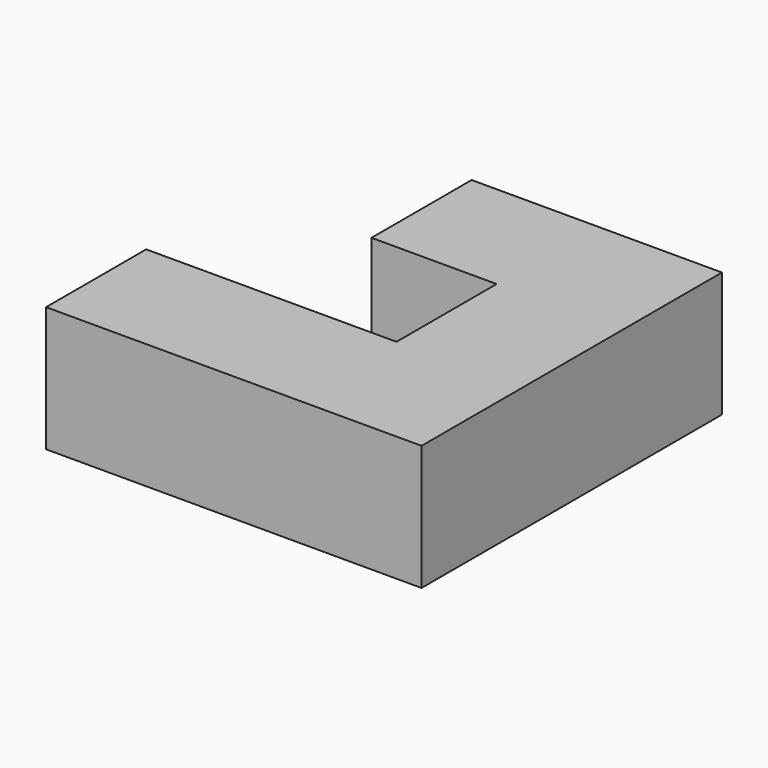
from build123d import *

# Parameters (mm, degrees)
F0_W     = 19.05
F0_H     = 19.05
F1_DEPTH = 19.05


with BuildPart() as f1:
    # F0 (on Top) → F1 (new body)
    with BuildSketch(Plane.XY):
        Polygon((38.1, 0), (0, 0), (0, -19.05), (57.15, -19.05), (57.15, 0), align=None)
        Polygon((38.1, 19.05), (38.1, 0), (57.15, 0), (57.15, 38.1), (38.1, 38.1), align=None)
        with Locations((28.575, 28.575)):
            Rectangle(F0_W, F0_H)
    extrude(amount=F1_DEPTH)


solid = f1.part
